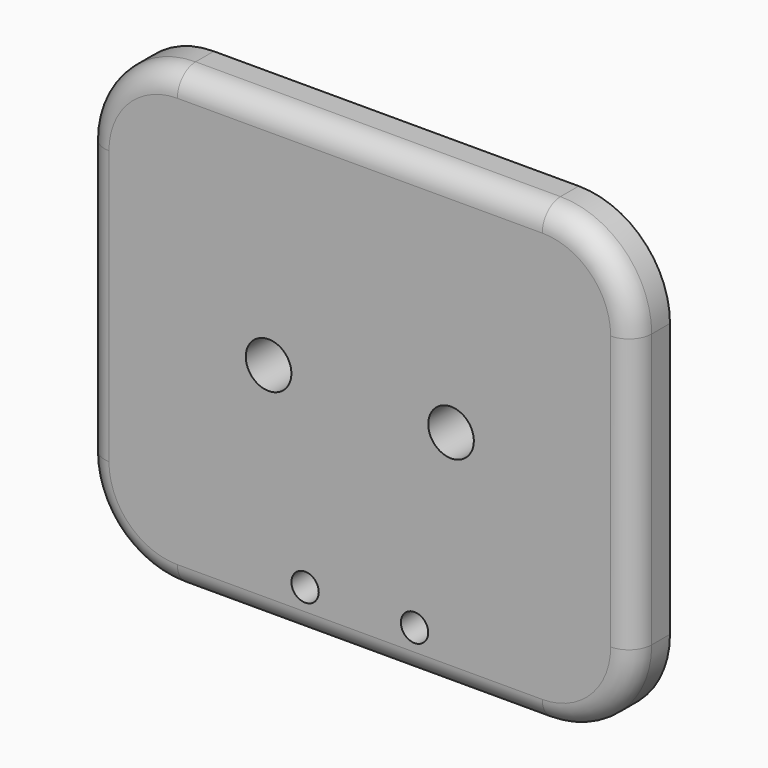
from build123d import *

# Parameters (mm, degrees)
F0_R     = 1.5
F0_R_2   = 2.5
F1_DEPTH = 5
F2_R     = 2.5


with BuildPart() as f1:
    # F0 (on Front) → F1 (new body)
    with BuildSketch(Plane.XZ):
        with BuildLine():
            Line((-20, -25), (20, -25))
            ThreePointArc((20, -25), (27.071068, -22.071068), (30, -15))
            Line((30, -15), (30, 15))
            ThreePointArc((30, 15), (27.071068, 22.071068), (20, 25))
            Line((20, 25), (-20, 25))
            ThreePointArc((-20, 25), (-27.071068, 22.071068), (-30, 15))
            Line((-30, 15), (-30, -15))
            ThreePointArc((-30, -15), (-27.071068, -22.071068), (-20, -25))
        make_face()
        with Locations((-6, -20.123001)):
            Circle(F0_R, mode=Mode.SUBTRACT)
        with Locations((6, -20.123001)):
            Circle(F0_R, mode=Mode.SUBTRACT)
        with Locations((-10, 0)):
            Circle(F0_R_2, mode=Mode.SUBTRACT)
        with Locations((10, 0)):
            Circle(F0_R_2, mode=Mode.SUBTRACT)
    extrude(amount=F1_DEPTH)

    # F2
    f2_edges = [f1.edges().sort_by_distance(p)[0] for p in [
        (-30, -5, 0),
        (30, -5, 0),
        (0, -5, 25),
        (0, -5, -25),
        (-27.071068, -5, -22.071068),
        (27.071068, -5, -22.071068),
        (-27.071068, -5, 22.071068),
        (27.071068, -5, 22.071068),
    ]]
    fillet(f2_edges, radius=F2_R)


solid = f1.part
